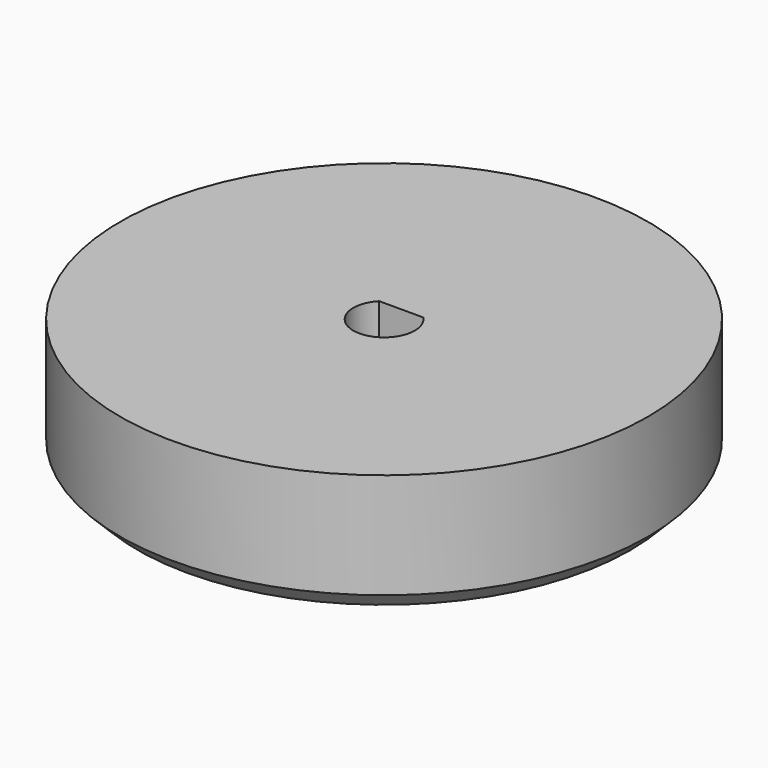
from build123d import *

# Parameters (mm, degrees)
F0_R     = 15
F1_DEPTH = 7
F2_DEPTH = 5
F3_SIZE  = 1


with BuildPart() as f1:
    # F0 (on Top) → F1 (new body)
    with BuildSketch(Plane.XY):
        Circle(F0_R)
        with BuildLine():
            ThreePointArc((1.254631, 1.22), (0, -1.75), (-1.254631, 1.22))
            Line((-1.254631, 1.22), (1.254631, 1.22))
        make_face(mode=Mode.SUBTRACT)
    extrude(amount=F1_DEPTH)

    # F0 (on Top) → F2 (join)
    with BuildSketch(Plane.XY):
        Circle(F0_R)
        with BuildLine():
            ThreePointArc((1.254631, 1.22), (0, -1.75), (-1.254631, 1.22))
            Line((-1.254631, 1.22), (1.254631, 1.22))
        make_face(mode=Mode.SUBTRACT)
    extrude(amount=F2_DEPTH)

    # F3
    f3_edges = [f1.edges().sort_by_distance(p)[0] for p in [
        (-15, 0, 0),
    ]]
    chamfer(f3_edges, length=F3_SIZE)


solid = f1.part
